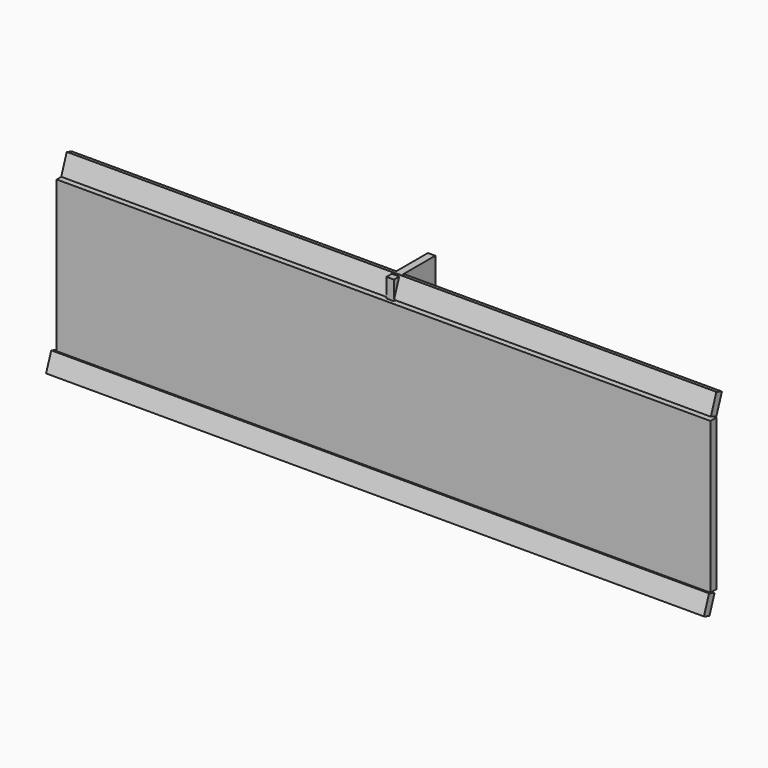
from build123d import *

# Parameters (mm, degrees)
F0_W     = 225.770414
F0_H     = 52.2094
F1_DEPTH = 1.27
F3_W     = 224.359341
F3_H     = 7.007578
F4_DEPTH = 1.27
F6_W     = 227.181472
F6_H     = 6.507041
F7_DEPTH = 1.27
F8_W     = 17.87349
F8_H     = 64.908989
F9_DEPTH = 2.54


with BuildPart() as f1:
    # F0 (on Front) → F1 (new body, symmetric)
    with BuildSketch(Plane.XZ):
        Rectangle(F0_W, F0_H)
    extrude(amount=F1_DEPTH, both=True)


with BuildPart() as f4:
    # F3 (on face) → F4 (new body, symmetric)
    with BuildSketch(Plane(origin=(0, -7.268451, 2.6455), x_dir=(1, 0, 0), z_dir=(0, -0.939693, 0.34202))):
        with Locations((-0.235173, 28.468552)):
            Rectangle(F3_W, F3_H)
    extrude(amount=F4_DEPTH, both=True)


with BuildPart() as f7:
    # F6 (on face) → F7 (new body, symmetric)
    with BuildSketch(Plane(origin=(0, 7.268451, -2.6455), x_dir=(1, 0, 0), z_dir=(0, -0.939693, 0.34202))):
        with Locations((-0.235174, -28.218279)):
            Rectangle(F6_W, F6_H)
    extrude(amount=F7_DEPTH, both=True)


with BuildPart() as f9:
    # F8 (on Right) → F9 (new body)
    with BuildSketch(Plane.YZ):
        with Locations((8.936745, 0.235178)):
            Rectangle(F8_W, F8_H)
    extrude(amount=F9_DEPTH)


solid = Compound([f1.part, f4.part, f7.part, f9.part])
